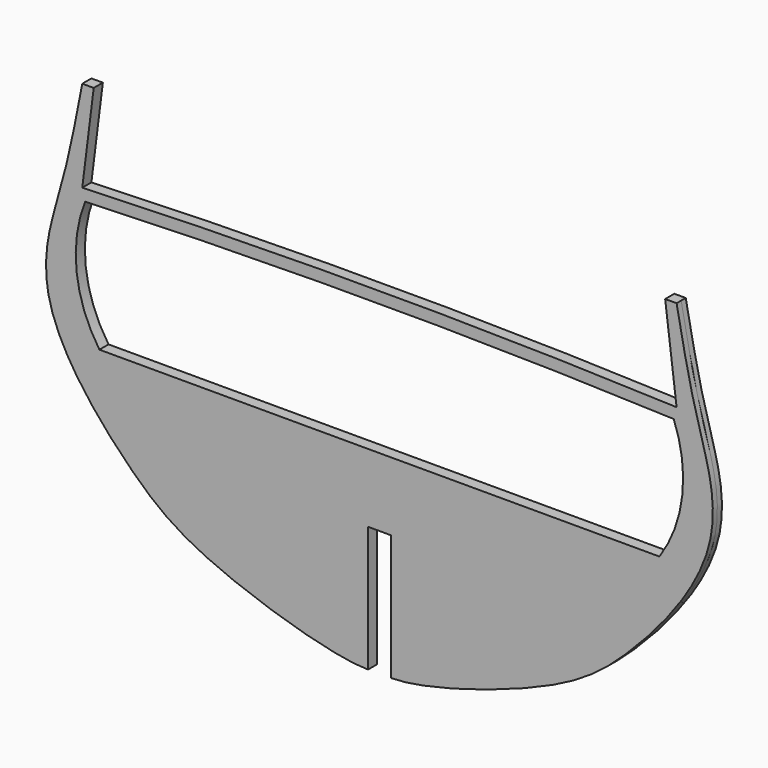
from build123d import *

# Parameters (mm, degrees)
F1_DEPTH = 1.5875


with BuildPart() as f1:
    # F0 (on Front) → F1 (new body, symmetric)
    with BuildSketch(Plane.XZ):
        with BuildLine():
            add(Edge.make_bspline(
                [(-3.175, -53.975), (-13.0116101055, -53.975), (-49.7067985219, -42.626319898), (-66.2067456609, -29.6459992922), (-78.8246268398, -16.1782839927), (-87.7060844154, -3.6129103076), (-92.94775985, 9.2896723873), (-92.6544676036, 22.4040483009), (-88.8149289504, 34.7479602908), (-85.3413838731, 48.7194354035), (-84.1372580078, 55.5637073987), (-82.55, 63.5)],
                knots=[0, 0, 0, 0, 0.1780416984, 0.3033381001, 0.4125937832, 0.5153937809, 0.6118329545, 0.7051514566, 0.7998950808, 0.8946387049, 1, 1, 1, 1], degree=3))
            Line((-3.175, -53.975), (-3.175, -19.05))
            Line((-3.175, -19.05), (0, -19.05))
            Line((0, -19.05), (3.175, -19.05))
            Line((3.175, -19.05), (3.175, -53.975))
            add(Edge.make_bspline(
                [(3.175, -53.975), (13.0116101055, -53.975), (49.7067985219, -42.626319898), (66.2067456609, -29.6459992922), (78.8246268398, -16.1782839927), (87.7060844154, -3.6129103076), (92.94775985, 9.2896723873), (92.6544676036, 22.4040483009), (88.8149289504, 34.7479602908), (85.3413838731, 48.7194354035), (84.1372580078, 55.5637073987), (82.55, 63.5)],
                knots=[0, 0, 0, 0, 0.1780416984, 0.3033381001, 0.4125937832, 0.5153937809, 0.6118329545, 0.7051514566, 0.7998950808, 0.8946387049, 1, 1, 1, 1], degree=3))
            Line((82.55, 63.5), (79.375, 63.5))
            Line((79.375, 63.5), (82.55, 38.071451412))
            ThreePointArc((82.55, 38.071451412), (0, 39.6875), (-82.55, 38.071451412))
            Line((-82.55, 38.071451412), (-79.375, 63.5))
            Line((-79.375, 63.5), (-82.55, 63.5))
        make_face()
        with BuildLine():
            Line((77.7875, 0), (0, 0))
            Line((0, 0), (-77.7875, 0))
            ThreePointArc((-77.7875, 0), (-84.1275891335, 16.9675324848), (-81.75625, 34.925))
            ThreePointArc((-81.75625, 34.925), (0, 36.5125), (81.75625, 34.925))
            ThreePointArc((81.75625, 34.925), (84.1275891335, 16.9675324848), (77.7875, 0))
        make_face(mode=Mode.SUBTRACT)
    extrude(amount=F1_DEPTH, both=True)


solid = f1.part
